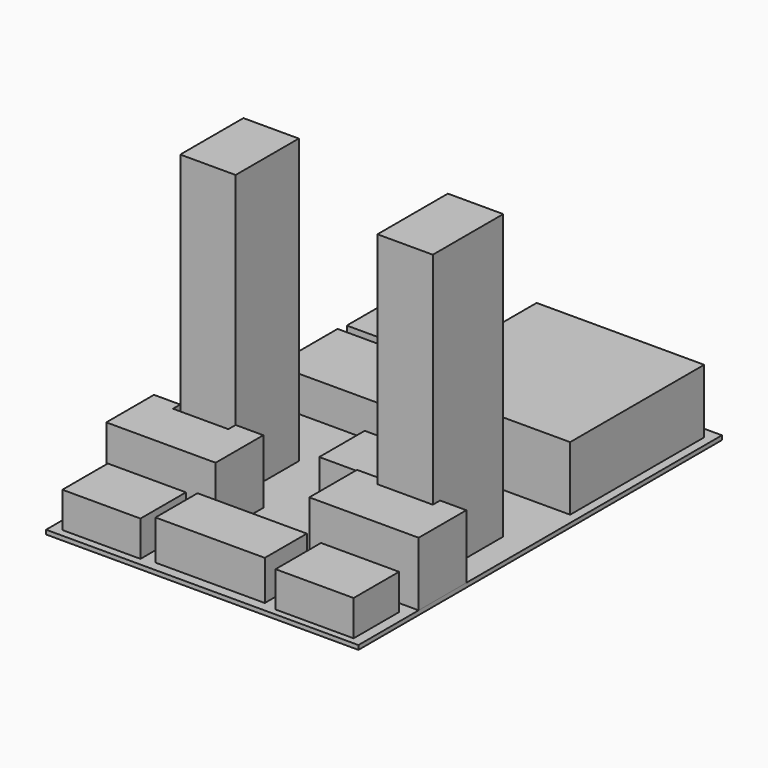
from build123d import *

# Parameters (mm, degrees)
F0_W     = 220
F0_H     = 320
F1_DEPTH = 3
F2_W     = 118
F2_H     = 118
F3_DEPTH = 45
F2_W_2   = 39
F2_H_2   = 55.5978671312
F2_H_3   = 6.4021328688
F4_DEPTH = 200
F2_W_3   = 55
F2_H_4   = 40
F5_DEPTH = 25
F2_W_4   = 80
F2_H_5   = 55
F6_DEPTH = 25
F7_DEPTH = 45
F2_W_5   = 77
F2_H_6   = 37
F8_DEPTH = 28


with BuildPart() as f1:
    # F0 (on Top) → F1 (new body)
    with BuildSketch(Plane.XY):
        with Locations((110, 160)):
            Rectangle(F0_W, F0_H)
    extrude(amount=F1_DEPTH)


with BuildPart() as f3:
    # F2 (on face) → F3 (new body)
    with BuildSketch(Plane.XY.offset(3)):
        with Locations((154.9253612757, 252.969533205)):
            Rectangle(F2_W, F2_H)
    extrude(amount=F3_DEPTH)


with BuildPart() as f4:
    # F2 (on face) → F4 (new body)
    with BuildSketch(Plane.XY.offset(3)):
        with Locations((182, 122.7989335656)):
            Rectangle(F2_W_2, F2_H_2)
        with Locations((182, 91.7989335656)):
            Rectangle(F2_W_2, F2_H_3)
    extrude(amount=F4_DEPTH)


with BuildPart() as f4b:
    # F2 (on face) → F4, piece 2 (new body)
    with BuildSketch(Plane.XY.offset(3)):
        with Locations((38, 122.7989335656)):
            Rectangle(F2_W_2, F2_H_2)
    extrude(amount=F4_DEPTH)


with BuildPart() as f5:
    # F2 (on face) → F5 (new body)
    with BuildSketch(Plane.XY.offset(3)):
        with Locations((120.7562312484, 143.9338475466)):
            Rectangle(F2_W_3, F2_H_4)
    extrude(amount=F5_DEPTH)


with BuildPart() as f5b:
    # F2 (on face) → F5, piece 2 (new body)
    with BuildSketch(Plane.XY.offset(3)):
        with Locations((34.76376459, 25.2775717527)):
            Rectangle(F2_W_3, F2_H_4)
    extrude(amount=F5_DEPTH)


with BuildPart() as f5c:
    # F2 (on face) → F5, piece 3 (new body)
    with BuildSketch(Plane.XY.offset(3)):
        with Locations((185.4172348976, 24.6109683067)):
            Rectangle(F2_W_3, F2_H_4)
    extrude(amount=F5_DEPTH)


with BuildPart() as f6:
    # F2 (on face) → F6 (new body)
    with BuildSketch(Plane.XY.offset(3)):
        with Locations((47.2405478358, 283.1874191761)):
            Rectangle(F2_W_4, F2_H_5)
    extrude(amount=F6_DEPTH)


with BuildPart() as f6b:
    # F2 (on face) → F6, piece 2 (new body)
    with BuildSketch(Plane.XY.offset(3)):
        with Locations((45.7953847945, 221.912458539)):
            Rectangle(F2_W_4, F2_H_5)
    extrude(amount=F6_DEPTH)


with BuildPart() as f7:
    # F2 (on face) → F7 (new body)
    with BuildSketch(Plane.XY.offset(3)):
        Polygon((18.5, 95), (0, 95), (0, 53), (77, 53), (77, 95), (57.5, 95), (57.5, 88.5978671312), (18.5, 88.5978671312), align=None)
    extrude(amount=F7_DEPTH)


with BuildPart() as f7b:
    # F2 (on face) → F7, piece 2 (new body)
    with BuildSketch(Plane.XY.offset(3)):
        Polygon((220, 53), (220, 95), (201.5, 95), (201.5, 88.5978671312), (162.5, 88.5978671312), (162.5, 95), (143, 95), (143, 53), align=None)
    extrude(amount=F7_DEPTH)


with BuildPart() as f8:
    # F2 (on face) → F8 (new body)
    with BuildSketch(Plane.XY.offset(3)):
        with Locations((110, 25.4482738674)):
            Rectangle(F2_W_5, F2_H_6)
    extrude(amount=F8_DEPTH)


solid = Compound([f1.part, f3.part, f4.part, f4b.part, f5.part, f5b.part, f5c.part, f6.part, f6b.part, f7.part, f7b.part, f8.part])
